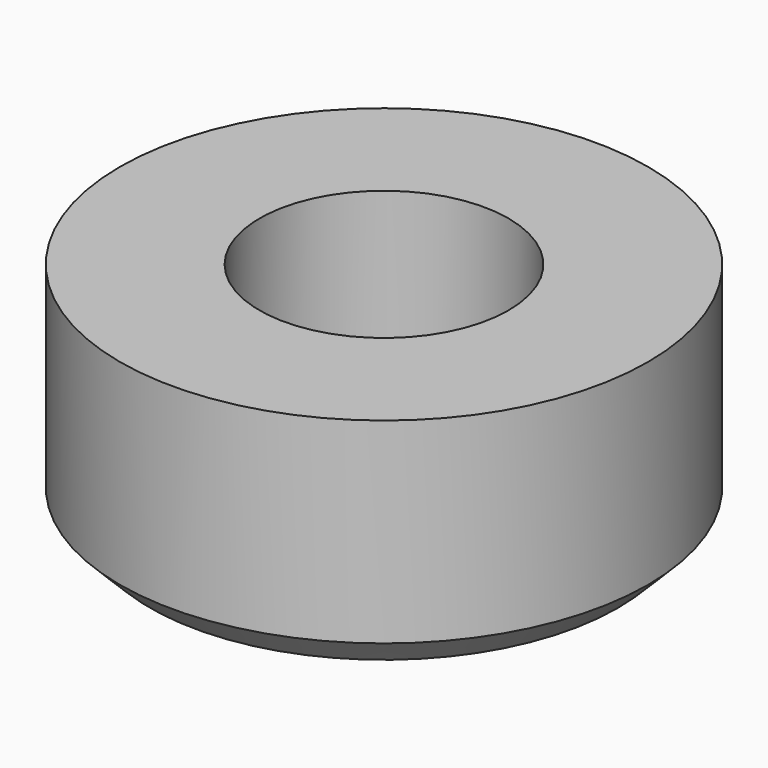
from build123d import *

# Parameters (mm, degrees)
CYLINDER001_R     = 1.65
CYLINDER001_DEPTH = 3
CYLINDER_R        = 3.5
CYLINDER_DEPTH    = 3
CHAMFER001_SIZE   = 0.4


with BuildPart() as cylinder001:
    # Cylinder001 → Cylinder001 (new body)
    with BuildSketch(Plane.XY):
        Circle(CYLINDER001_R)
    extrude(amount=CYLINDER001_DEPTH)


with BuildPart() as chamfer001:
    # Cylinder → Cylinder (new body)
    with BuildSketch(Plane.XY):
        Circle(CYLINDER_R)
    extrude(amount=CYLINDER_DEPTH)

    # Cut: cut Cylinder001
    add(cylinder001.part, mode=Mode.SUBTRACT)

    # Chamfer001
    chamfer001_edges = [chamfer001.edges().sort_by_distance(p)[0] for p in [
        (-3.5, 0, 0),
        (-1.65, 0, 0),
    ]]
    chamfer(chamfer001_edges, length=CHAMFER001_SIZE)


solid = chamfer001.part
